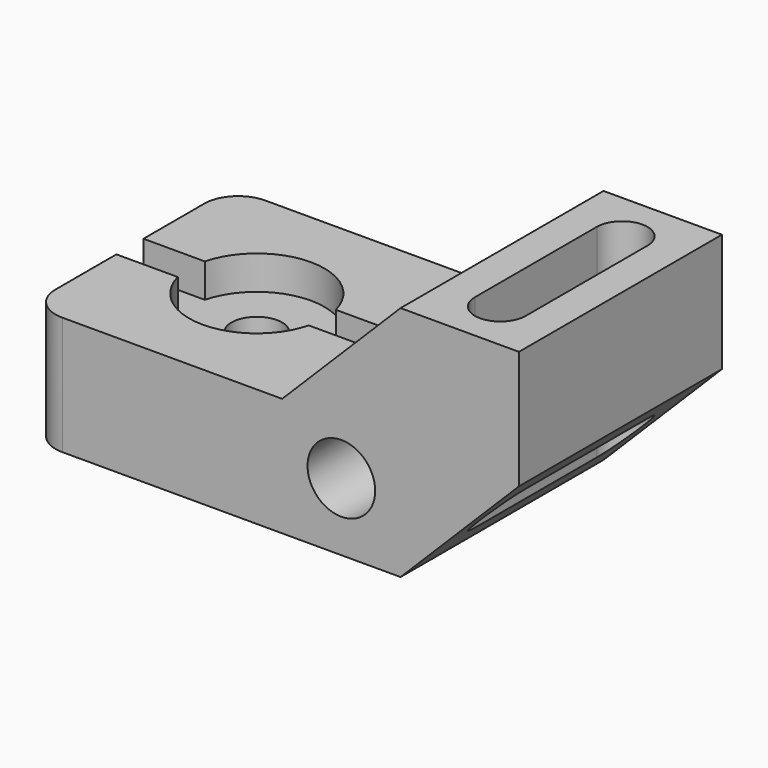
from build123d import *

# Parameters (mm, degrees)
F0_W            = 76.2
F0_H            = 76.2
F1_DEPTH        = 35.56
F0_W_2          = 71.12
F2_DEPTH        = 71.12
F4_DEPTH        = 76.201
F5_R            = 10.16
F6_DEPTH        = 76.201
F8_DEPTH        = 71.121
F10_D           = 15.24
F10_CBORE_D     = 40.64
F10_CBORE_DEPTH = 10.16
F11_W           = 10.16
F11_H           = 10.16
F12_DEPTH       = 76.2
F13_R           = 10.16


with BuildPart() as f1:
    # F0 (on Top) → F1 (new body)
    with BuildSketch(Plane.XY):
        with Locations((38.1, 38.1)):
            Rectangle(F0_W, F0_H)
    extrude(amount=F1_DEPTH)

    # F0 (on Top) → F2 (join)
    with BuildSketch(Plane.XY):
        with Locations((111.76, 38.1)):
            Rectangle(F0_W_2, F0_H)
    extrude(amount=F2_DEPTH)

    # F3 (on face) → F4 (cut, through all)
    with BuildSketch(Plane.XZ):
        Polygon((76.2, 35.56), (111.76, 71.12), (76.2, 71.12), align=None)
        Polygon((111.76, 0), (147.32, 0), (147.32, 35.56), align=None)
    extrude(amount=-F4_DEPTH, mode=Mode.SUBTRACT)

    # F5 (on face) → F6 (cut, through all)
    with BuildSketch(Plane.XZ):
        with Locations((93.98, 20.32)):
            Circle(F5_R)
    extrude(amount=-F6_DEPTH, mode=Mode.SUBTRACT)

    # F7 (on face) → F8 (cut, through all)
    with BuildSketch(Plane.XY.offset(71.12)):
        with BuildLine():
            ThreePointArc((137.16, 60.96), (129.54, 68.58), (121.92, 60.96))
            Line((121.92, 60.96), (121.92, 15.24))
            ThreePointArc((121.92, 15.24), (129.54, 7.62), (137.16, 15.24))
            Line((137.16, 15.24), (137.16, 60.96))
        make_face()
    extrude(amount=-F8_DEPTH, mode=Mode.SUBTRACT)

    # F10 (through all)
    with Locations(Plane.XY.offset(35.56)):
        with Locations((38.1, 38.1)):
            CounterBoreHole(F10_D / 2, F10_CBORE_D / 2, F10_CBORE_DEPTH)

    # F11 (on face) → F12 (cut)
    with BuildSketch(Plane(origin=(0, 0, 0), x_dir=(0, -1, 0), z_dir=(-1, 0, 0))):
        with Locations((-38.1, 30.48)):
            Rectangle(F11_W, F11_H)
        with Locations((-38.1, 30.48)):
            Rectangle(F11_W, F11_H)
    extrude(amount=-F12_DEPTH, mode=Mode.SUBTRACT)

    # F13
    f13_edges = [f1.edges().sort_by_distance(p)[0] for p in [
        (0, 76.2, 17.78),
        (0, 0, 17.78),
    ]]
    fillet(f13_edges, radius=F13_R)


solid = f1.part
